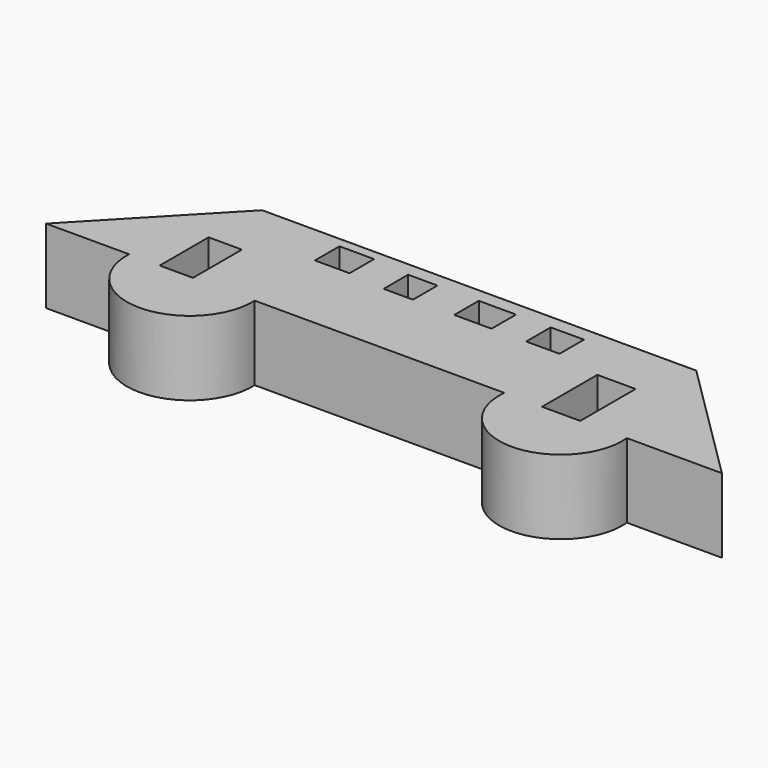
from build123d import *

# Parameters (mm, degrees)
F0_W     = 7.7999122441
F0_H     = 6.8999230862
F0_W_2   = 6.5999259241
F0_W_3   = 8.3999030758
F0_W_4   = 7.4999127537
F0_W_5   = 17.3998039681
F0_H_2   = 13.469719328
F0_W_6   = 19.7997752111
F1_DEPTH = 16.764


with BuildPart() as f1:
    # F0 (on Top) → F1 (new body)
    with BuildSketch(Plane.XY):
        with BuildLine():
            Line((-59.4818092616, 16.9173511698), (-75.65433532, 0))
            Line((-75.65433532, 0), (-56.9691322744, 0))
            Line((-56.9691322744, 0), (-50.0688962638, 0))
            Line((-50.0688962638, 0), (-50.0688962638, 13.7697160244))
            Line((-50.0688962638, 13.7697160244), (-42.5689779222, 13.7697160244))
            Line((-42.5689779222, 13.7697160244), (-42.5689779222, 0))
            Line((-42.5689779222, 0), (-30.2691180259, 0))
            Line((-30.2691180259, 0), (-30.2691180259, 13.469719328))
            Line((-30.2691180259, 13.469719328), (-14.36929591, 13.469719328))
            Line((-14.36929591, 13.469719328), (3.0305080581, 13.469719328))
            Line((3.0305080581, 13.469719328), (22.8302832693, 13.469719328))
            Line((22.8302832693, 13.469719328), (22.8302832693, 0))
            Line((22.8302832693, 0), (27.537882328, 0))
            Line((27.537882328, 0), (36.0301360488, 0))
            Line((36.0301360488, 0), (36.0301360488, 15.5696962029))
            Line((36.0301360488, 15.5696962029), (44.6445176616, 15.5696962029))
            Line((44.6445176616, 15.5696962029), (44.6445176616, 0))
            Line((44.6445176616, 0), (55.1420748234, 0))
            Line((55.1420748234, 0), (76.5484273434, 0))
            Line((76.5484273434, 0), (57.7259496837, 18.6665190633))
            ThreePointArc((57.7259496837, 18.6665190633), (44.6445176616, 18.7276304562), (35.1301468909, 27.7056228369))
            Line((35.1301468909, 27.7056228369), (-36.2690500915, 27.7056228369))
            ThreePointArc((-36.2690500915, 27.7056228369), (-46.0901653841, 18.4701942224), (-59.4818092616, 16.9173511698))
        make_face()
        with Locations((-26.0691642761, 22.0196228474)):
            Rectangle(F0_W, F0_H, mode=Mode.SUBTRACT)
        with Locations((-10.4693404865, 21.1196336895)):
            Rectangle(F0_W_2, F0_H, mode=Mode.SUBTRACT)
        with Locations((6.3304699725, 21.1196336895)):
            Rectangle(F0_W_3, F0_H, mode=Mode.SUBTRACT)
        with Locations((22.0802919939, 21.1196336895)):
            Rectangle(F0_W_4, F0_H, mode=Mode.SUBTRACT)
        with BuildLine():
            Line((-49.1685159504, 27.7056228369), (-59.4818092616, 16.9173511698))
            ThreePointArc((-59.4818092616, 16.9173511698), (-46.0901653841, 18.4701942224), (-36.2690500915, 27.7056228369))
            Line((-36.2690500915, 27.7056228369), (-49.1685159504, 27.7056228369))
        make_face()
        with BuildLine():
            Line((48.6113242805, 27.7056228369), (35.1301468909, 27.7056228369))
            ThreePointArc((35.1301468909, 27.7056228369), (44.6445176616, 18.7276304562), (57.7259496837, 18.6665190633))
            Line((57.7259496837, 18.6665190633), (48.6113242805, 27.7056228369))
        make_face()
        with Locations((-5.6693939259, 6.734859664)):
            Rectangle(F0_W_5, F0_H_2)
        with Locations((12.9303956637, 6.734859664)):
            Rectangle(F0_W_6, F0_H_2)
        Polygon((-30.2691180259, 0), (-28.6692157388, 0), (-14.36929591, 0), (-14.36929591, 13.469719328), (-30.2691180259, 13.469719328), align=None)
        with BuildLine():
            ThreePointArc((27.537882328, 0), (41.3399785757, -15.2172739199), (55.1420748234, 0))
            Line((55.1420748234, 0), (44.6445176616, 0))
            Line((44.6445176616, 0), (36.0301360488, 0))
            Line((36.0301360488, 0), (27.537882328, 0))
        make_face()
        with BuildLine():
            Line((-50.0688962638, 0), (-56.9691322744, 0))
            ThreePointArc((-56.9691322744, 0), (-42.8191740066, -14.7643966846), (-28.6692157388, 0))
            Line((-28.6692157388, 0), (-30.2691180259, 0))
            Line((-30.2691180259, 0), (-42.5689779222, 0))
            Line((-42.5689779222, 0), (-50.0688962638, 0))
        make_face()
    extrude(amount=-F1_DEPTH)


solid = f1.part
